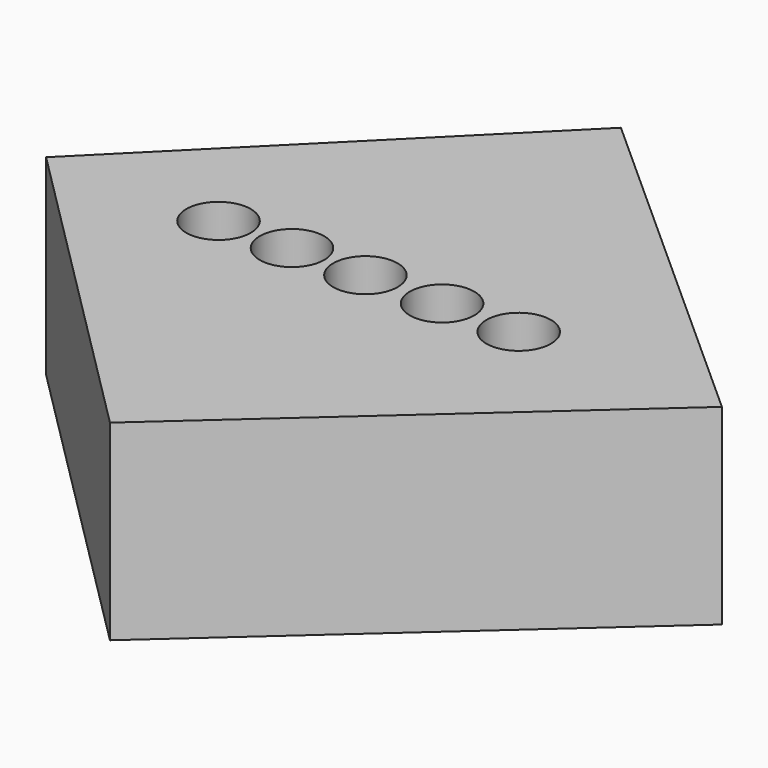
from build123d import *

# Parameters (mm, degrees)
F1_DEPTH = 7.62
F2_R     = 1.2827
F3_DEPTH = 7.621


with BuildPart() as f1:
    # F0 (on Top) → F1 (new body)
    with BuildSketch(Plane.XY):
        Polygon((14.177673, 0), (0, 12.7), (-12.7, 0), (0, -12.7), align=None)
    extrude(amount=F1_DEPTH)

    # F2 (on face) → F3 (cut, through all)
    with BuildSketch(Plane.XY.offset(7.62)):
        with Locations((-5.842, 0)):
            Circle(F2_R)
        with Locations((-2.921, 0)):
            Circle(F2_R)
        Circle(F2_R)
        with Locations((3.048, 0)):
            Circle(F2_R)
        with Locations((6.096, 0)):
            Circle(F2_R)
    extrude(amount=-F3_DEPTH, mode=Mode.SUBTRACT)


solid = f1.part
